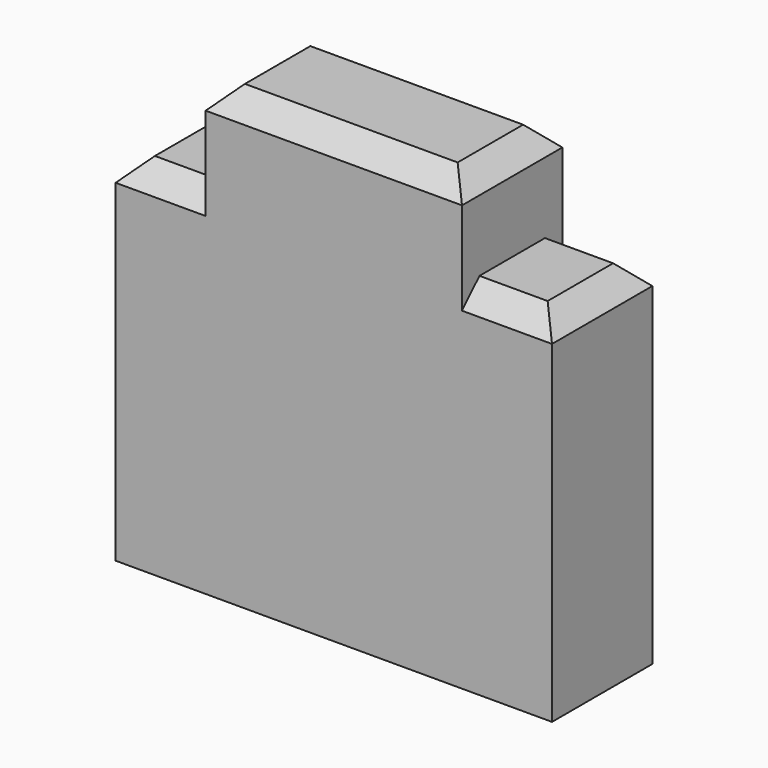
from build123d import *

# Parameters (mm, degrees)
SKETCH008_W     = 4
SKETCH008_H     = 1.15
PAD005_DEPTH    = 4.1
SKETCH009_W     = 0.825
SKETCH009_H     = 0.85
POCKET002_DEPTH = 5
CHAMFER005_SIZE = 0.2


with BuildPart() as part:
    # Sketch008 → Pad005 (new body)
    with BuildSketch(Plane.XY):
        Rectangle(SKETCH008_W, SKETCH008_H)
    extrude(amount=PAD005_DEPTH)

    # Sketch009 (on Face1 of Pad005) → Pocket002 (cut)
    with BuildSketch(Plane(origin=(0, 0.575, 0), x_dir=(-1, 0, 0), z_dir=(0, 1, 0))):
        with Locations((-1.5875, 3.675)):
            Rectangle(SKETCH009_W, SKETCH009_H)
        with Locations((1.5875, 3.675)):
            Rectangle(SKETCH009_W, SKETCH009_H)
    extrude(amount=-POCKET002_DEPTH, mode=Mode.SUBTRACT)

    # Chamfer005
    chamfer005_edges = [part.edges().sort_by_distance(p)[0] for p in [
        (0, 0.575, 4.1),
        (0, -0.575, 4.1),
        (1.5875, 0.575, 3.25),
        (-1.5875, 0.575, 3.25),
        (-1.5875, -0.575, 3.25),
        (1.5875, -0.575, 3.25),
        (2, 0, 3.25),
        (-2, 0, 3.25),
        (1.175, 0, 4.1),
        (-1.175, 0, 4.1),
    ]]
    chamfer(chamfer005_edges, length=CHAMFER005_SIZE)


with BuildPart() as part_1:
    # Body042 placement: moved
    add(part.part.moved(Location((0, 48, 0))))


solid = part_1.part
